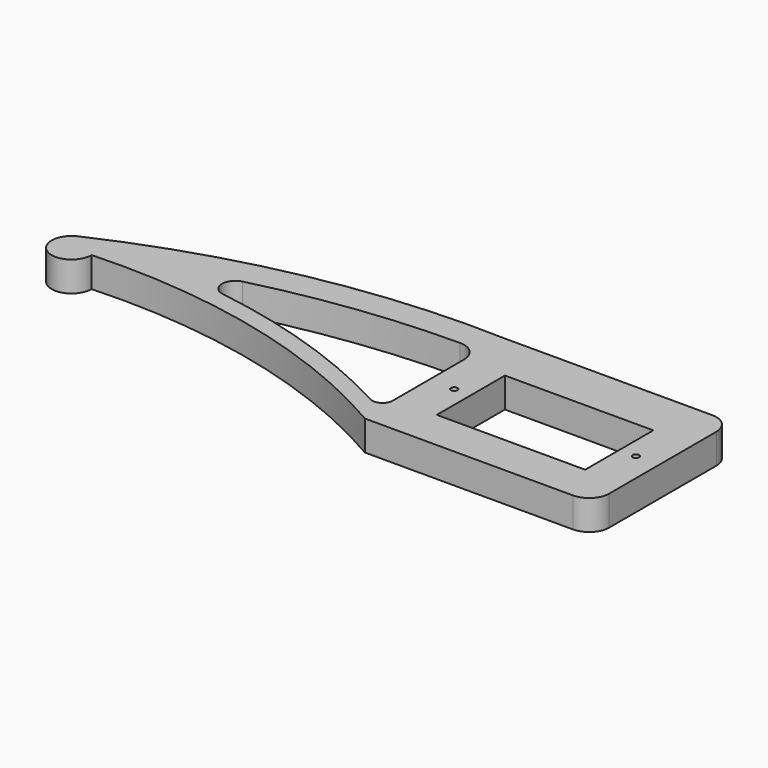
from build123d import *

# Parameters (mm, degrees)
SKETCH_R  = 0.48
SKETCH_W  = 22.3
SKETCH_H  = 12.8
PAD_DEPTH = 4.5


with BuildPart() as part:
    # Sketch → Pad (new body)
    with BuildSketch(Plane.XY):
        with BuildLine():
            Line((-17.15, -12.4), (14.15, -12.4))
            ThreePointArc((14.15, -12.4), (16.27132, -11.52132), (17.15, -9.4))
            Line((17.15, -9.4), (17.15, 10.741965))
            ThreePointArc((17.15, 10.741965), (16.27132, 12.863286), (14.15, 13.741965))
            Line((14.15, 13.741965), (-17.15, 13.741965))
            ThreePointArc((-17.15, 13.741965), (-45.41951, 11.467422), (-72.4, 2.727178))
            ThreePointArc((-72.4, 2.727178), (-72.770186, -2.524876), (-68.15, -1e-06))
            ThreePointArc((-17.15, -12.4), (-41.755087, -2.51931), (-68.15, -1e-06))
        make_face()
        with Locations((-13.65, 0)):
            Circle(SKETCH_R, mode=Mode.SUBTRACT)
        with Locations((13.65, 0)):
            Circle(SKETCH_R, mode=Mode.SUBTRACT)
        Rectangle(SKETCH_W, SKETCH_H, mode=Mode.SUBTRACT)
        with BuildLine():
            Line((-17.44, 6.580017), (-17.44, -6.814013))
            ThreePointArc((-19.71, -8.17), (-18.190253, -8.136095), (-17.44, -6.814013))
            ThreePointArc((-19.71, -8.17), (-34.392185, -1.83077), (-49.944735, 1.893553))
            ThreePointArc((-50.141709, 5.809641), (-51.645768, 3.770991), (-49.944735, 1.893553))
            ThreePointArc((-20.45, 9.58), (-35.411915, 8.608801), (-50.141709, 5.809641))
            ThreePointArc((-17.44, 6.580017), (-18.322218, 8.70487), (-20.45, 9.58))
        make_face(mode=Mode.SUBTRACT)
    extrude(amount=PAD_DEPTH)


solid = part.part
